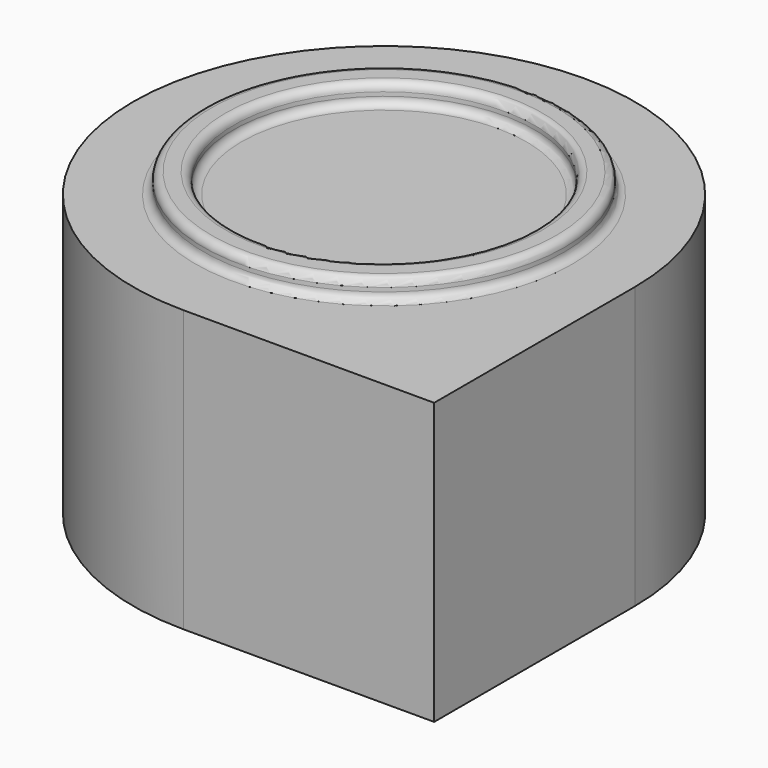
from build123d import *

# Parameters (mm, degrees)
F1_DEPTH = 44.45
F2_R     = 28.575
F2_R_2   = 23.8125
F3_DEPTH = 3.175
F4_R     = 1.27


with BuildPart() as f1:
    # F0 (on Top) → F1 (new body)
    with BuildSketch(Plane.XY):
        with BuildLine():
            Line((42.139101, -46.398989), (42.139101, -6.711489))
            ThreePointArc((42.139101, -6.711489), (30.514902, -34.774789), (2.451601, -46.398989))
            Line((2.451601, -46.398989), (42.139101, -46.398989))
        make_face()
        with BuildLine():
            ThreePointArc((2.451601, -46.398989), (30.514902, -34.774789), (42.139101, -6.711489))
            ThreePointArc((42.139101, -6.711489), (-25.611699, 21.351812), (2.451601, -46.398989))
        make_face()
    extrude(amount=F1_DEPTH)

    # F2 (on face) → F3 (join)
    with BuildSketch(Plane.XY.offset(44.45)):
        with Locations((2.451601, -6.711489)):
            Circle(F2_R)
        with Locations((2.451601, -6.711489)):
            Circle(F2_R_2, mode=Mode.SUBTRACT)
    extrude(amount=F3_DEPTH)

    # F4
    f4_edges = [f1.edges().sort_by_distance(p)[0] for p in [
        (-26.123399, -6.711489, 47.625),
        (-21.360899, -6.711489, 47.625),
        (-26.123399, -6.711489, 44.45),
        (-21.360899, -6.711489, 44.45),
    ]]
    fillet(f4_edges, radius=F4_R)


solid = f1.part
